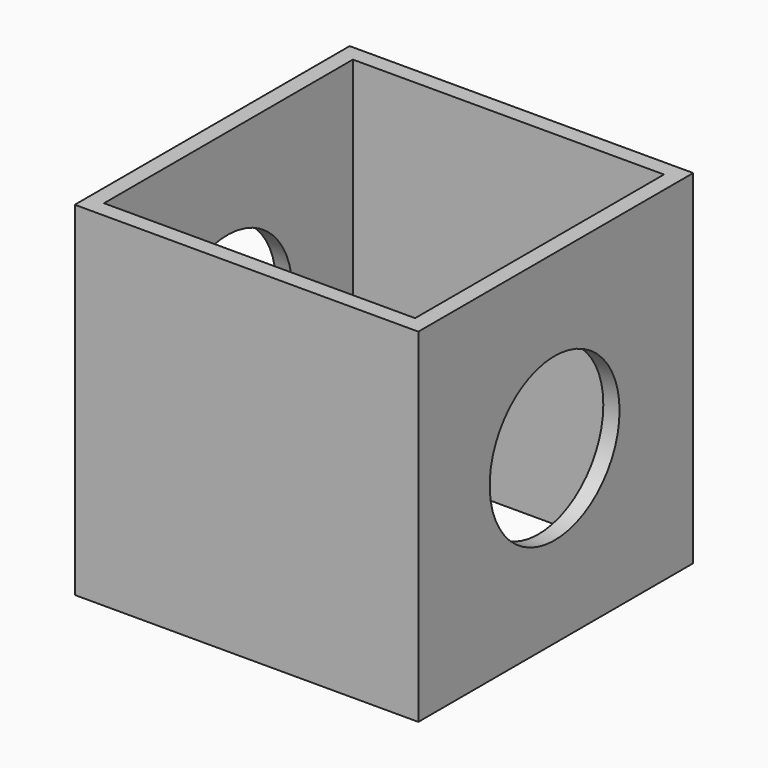
from build123d import *

# Parameters (mm, degrees)
F0_W     = 63.5
F0_H     = 63.5
F0_W_2   = 57.5
F0_H_2   = 57.5
F1_DEPTH = 63.5
F2_R     = 15
F3_DEPTH = 3
F4_R     = 15
F5_DEPTH = 3


with BuildPart() as f1:
    # F0 (on Top) → F1 (new body)
    with BuildSketch(Plane.XY):
        with Locations((0.304607, 0.271222)):
            Rectangle(F0_W, F0_H)
        with Locations((0.304607, 0.271222)):
            Rectangle(F0_W_2, F0_H_2, mode=Mode.SUBTRACT)
    extrude(amount=F1_DEPTH)

    # F2 (on face) → F3 (cut)
    with BuildSketch(Plane.YZ.offset(32.054607)):
        with Locations((0, 31.75)):
            Circle(F2_R)
    extrude(amount=-F3_DEPTH, mode=Mode.SUBTRACT)

    # F4 (on face) → F5 (cut)
    with BuildSketch(Plane(origin=(-31.445393, 0, 0), x_dir=(0, -1, 0), z_dir=(-1, 0, 0))):
        with Locations((0, 31.75)):
            Circle(F4_R)
    extrude(amount=-F5_DEPTH, mode=Mode.SUBTRACT)


solid = f1.part
